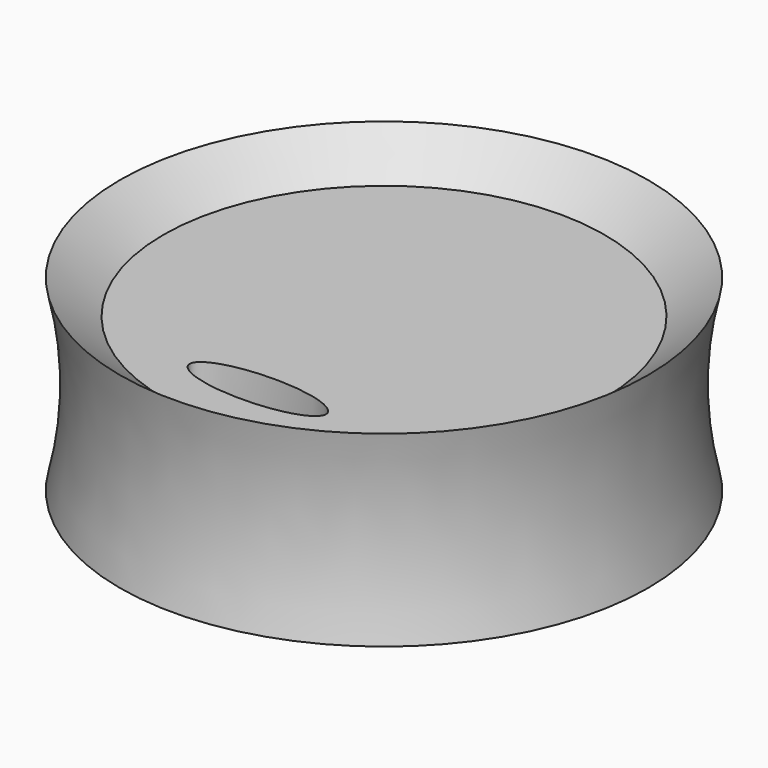
from build123d import *

# Parameters (mm, degrees)
F3_DEPTH = 99.822


with BuildPart() as f1:
    # F0 (on Front) → F1 (revolve)
    with BuildSketch(Plane.XZ):
        with BuildLine():
            ThreePointArc((39.37, -12.238948), (37.690874, 1.731052), (39.37, 15.701052))
            Line((39.37, 15.701052), (32.885922, 10.621052))
            Line((32.885922, 10.621052), (0, 10.621052))
            Line((0, 10.621052), (0, 5.541052))
            Line((0, 5.541052), (31.75, 5.541052))
            Line((31.75, 5.541052), (31.75, -12.238948))
            Line((31.75, -12.238948), (39.37, -12.238948))
        make_face()
    revolve(axis=Axis((0, 0, -0.808948), (0, 0, -1)))

    # F2 (on Top) → F3 (cut)
    with BuildSketch(Plane.XY):
        with BuildLine():
            add(Edge.make_bspline(
                [(10.16, -23.495), (10.16, -17.995739), (-5.08, -20.745369), (-20.32, -23.495), (-5.08, -26.244631), (10.16, -28.994261), (10.16, -23.495)],
                knots=[0, 0, 0, 2.094395, 2.094395, 4.18879, 4.18879, 6.283185, 6.283185, 6.283185], degree=2, weights=[1, 0.5, 1, 0.5, 1, 0.5, 1]))
        make_face()
    extrude(amount=F3_DEPTH, mode=Mode.SUBTRACT)


solid = f1.part
